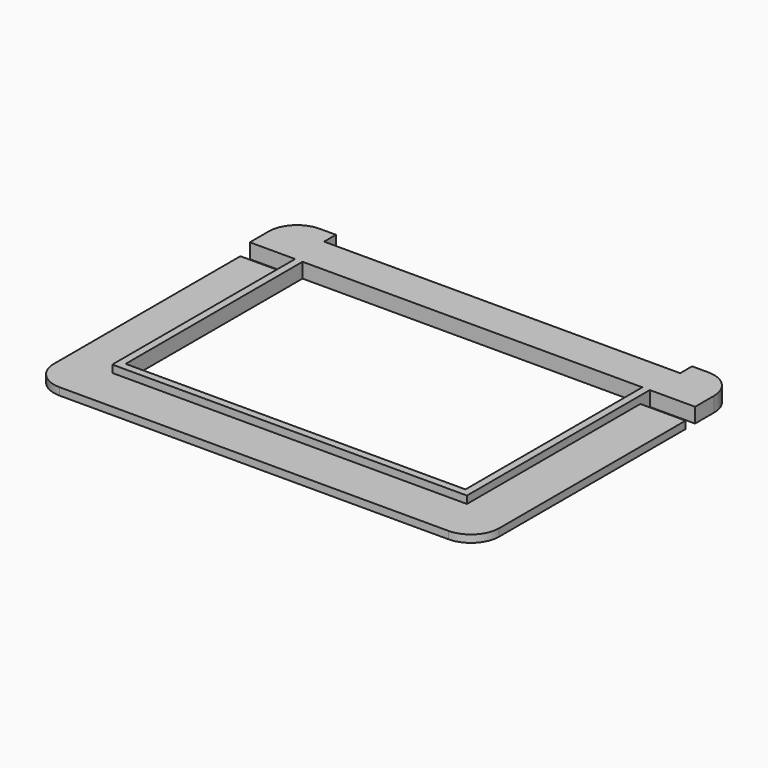
from build123d import *

# Parameters (mm, degrees)
F0_W     = 229
F0_H     = 149
F1_DEPTH = 10
F2_DEPTH = 5
F3_R     = 19


with BuildPart() as f1:
    # F0 (on Top) → F1 (new body)
    with BuildSketch(Plane.XY):
        Polygon((30, 0), (0, 0), (0, -35), (30.5, -35), (30.5, -43), (30.5, -184), (30.5, -188.999996), (35.5, -188.999996), (264.5, -188.999996), (269.5, -188.999996), (269.5, -184), (269.5, -43), (269.5, -35), (300, -35), (300, 0), (270, 0), (270, -10), (150, -10), (30, -10), align=None)
        with Locations((150, -109.5)):
            Rectangle(F0_W, F0_H, mode=Mode.SUBTRACT)
    extrude(amount=F1_DEPTH)

    # F0 (on Top) → F2 (join)
    with BuildSketch(Plane.XY):
        Polygon((30.5, -43), (0, -43), (0, -219), (300, -219), (300, -43), (269.5, -43), (269.5, -184), (269.5, -188.999996), (264.5, -188.999996), (35.5, -188.999996), (30.5, -188.999996), (30.5, -184), align=None)
    extrude(amount=F2_DEPTH)

    # F3
    f3_edges = [f1.edges().sort_by_distance(p)[0] for p in [
        (0, 0, 5),
        (300, 0, 5),
        (300, -219, 2.5),
        (0, -219, 2.5),
    ]]
    fillet(f3_edges, radius=F3_R)


solid = f1.part
